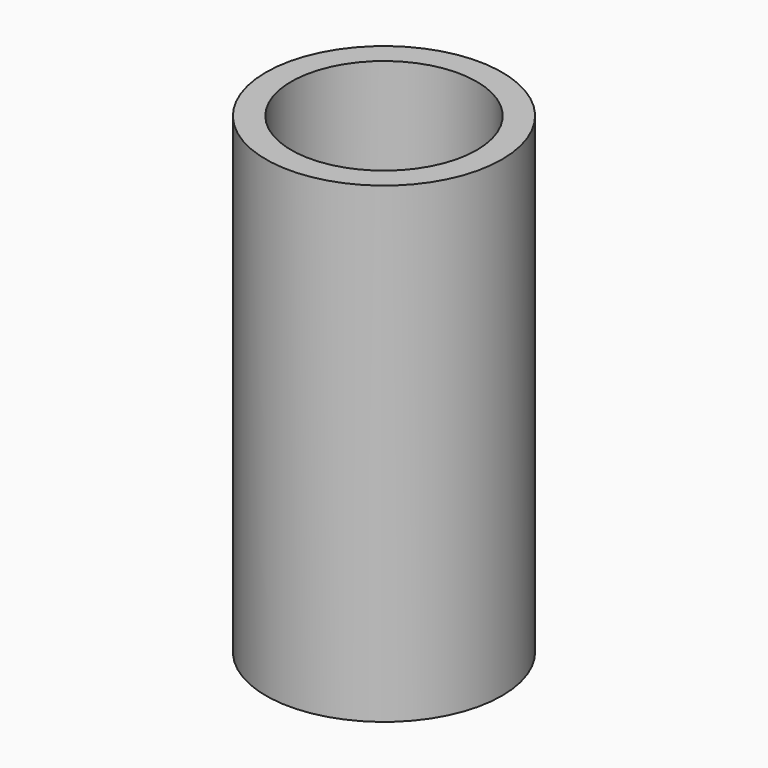
from build123d import *

# Parameters (mm, degrees)
F0_R     = 3.5
F0_R_2   = 2.75
F1_DEPTH = 2
F2_DEPTH = 14


with BuildPart() as f1:
    # F0 (on Top) → F1 (new body)
    with BuildSketch(Plane.XY):
        Circle(F0_R)
        Circle(F0_R_2, mode=Mode.SUBTRACT)
    extrude(amount=F1_DEPTH)


with BuildPart() as f2:
    # F0 (on Top) → F2 (new body)
    with BuildSketch(Plane.XY):
        Circle(F0_R)
        Circle(F0_R_2, mode=Mode.SUBTRACT)
    extrude(amount=F2_DEPTH)


solid = Compound([f1.part, f2.part])
